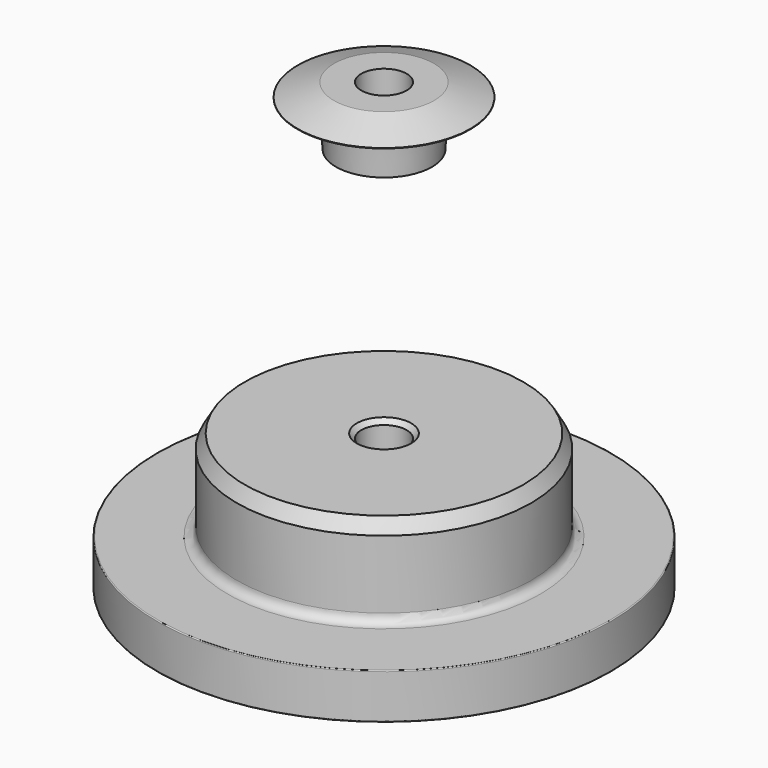
from build123d import *


with BuildPart() as f1:
    # F0 (on Front) → F1 (revolve)
    with BuildSketch(Plane.XZ):
        with BuildLine():
            Line((4.25, 4.5), (0, 2.240235))
            Line((0, 2.240235), (0, 0))
            Line((0, 0), (49.8, 0))
            ThreePointArc((49.8, 0), (49.941421, 0.058579), (50, 0.2))
            Line((50, 0.2), (50, 9.8))
            ThreePointArc((50, 9.8), (49.941421, 9.941421), (49.8, 10))
            Line((49.8, 10), (34.41, 10))
            ThreePointArc((34.41, 10), (32.995786, 10.585786), (32.41, 12))
            Line((32.41, 12), (32.41, 27.01))
            Line((32.41, 27.01), (30.677949, 30.01))
            Line((30.677949, 30.01), (6, 30.01))
            Line((6, 30.01), (5, 29.01))
            Line((5, 29.01), (5, 16))
            Line((5, 16), (4.25, 15.601218))
            Line((4.25, 15.601218), (4.25, 4.5))
        make_face()
        Polygon((5, 98.1), (5, 85.1), (10.575922, 85.1), (11.1, 95.1), (19, 95.1), (19, 95.2), (11.032315, 98.1), align=None)
    revolve(axis=Axis((0, 0, 0), (0, 0, -1)))


solid = f1.part
